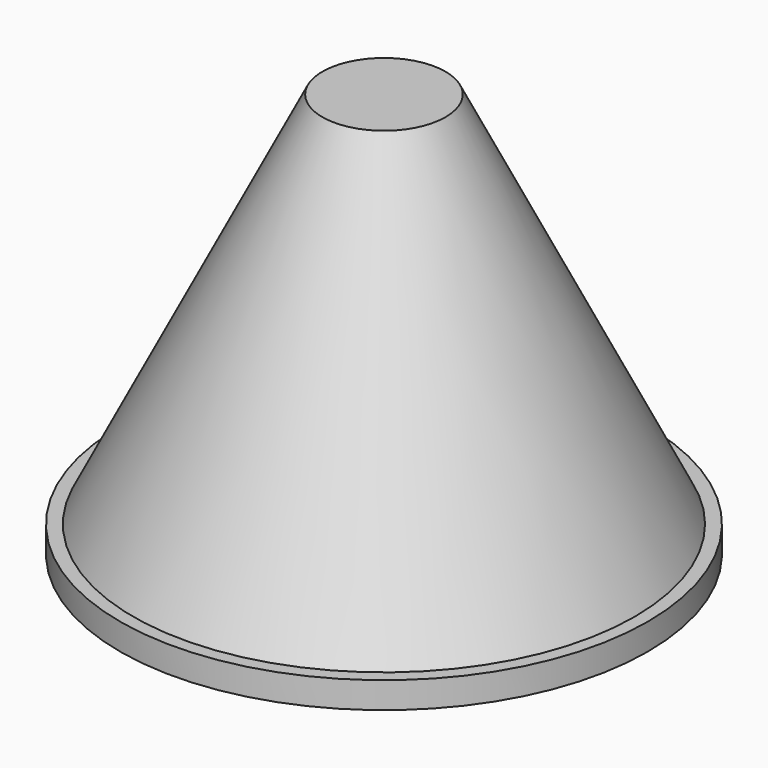
from build123d import *

# Parameters (mm, degrees)
F2_R          = 20
F3_DEPTH      = 2
F4_W          = 15.1418782771
F4_H          = 14.9113200605
F5_DEPTH      = 25
F5_DEPTH_BACK = 25


with BuildPart() as f1:
    # F0 (on Front) → F1 (revolve)
    with BuildSketch(Plane.XZ):
        Polygon((0, 40), (0, 0), (20, 0), align=None)
    revolve(axis=Axis((0, 0, 20), (0, 0, 1)))

    # F2 (on Top) → F3 (join)
    with BuildSketch(Plane.XY):
        Circle(F2_R)
    extrude(amount=F3_DEPTH)

    # F4 (on Front) → F5 (cut, two sides)
    with BuildSketch(Plane.XZ) as f5_sk:
        with Locations((0.5040215328, 38.1232108921)):
            Rectangle(F4_W, F4_H)
    extrude(amount=-F5_DEPTH, mode=Mode.SUBTRACT)
    extrude(f5_sk.sketch, amount=F5_DEPTH_BACK, mode=Mode.SUBTRACT)


solid = f1.part
